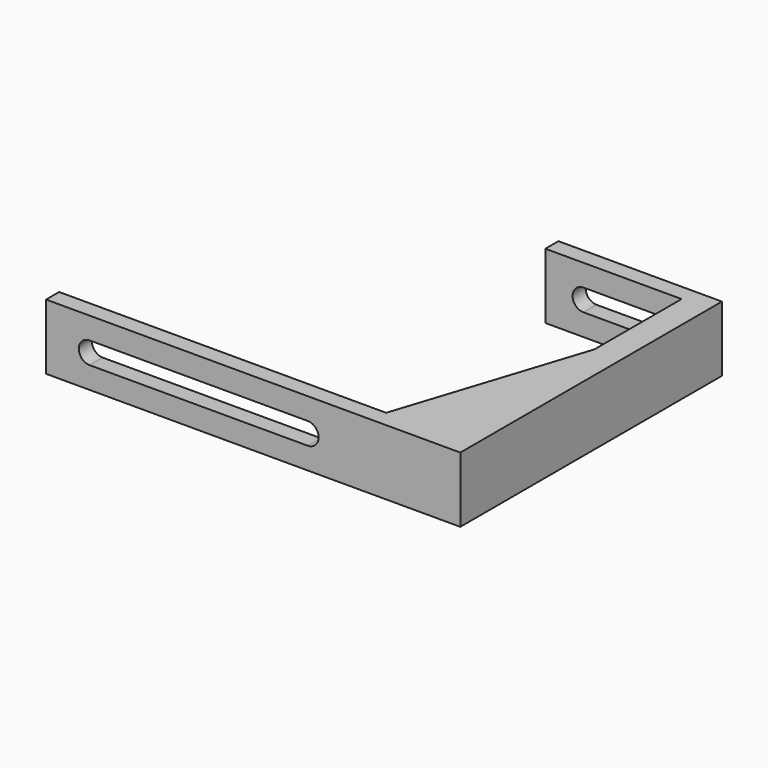
from build123d import *

# Parameters (mm, degrees)
PAD_DEPTH       = 12
POCKET_DEPTH    = 5
POCKET001_DEPTH = 5


with BuildPart() as part:
    # Sketch → Pad (new body)
    with BuildSketch(Plane.XY):
        Polygon((0, 0), (76, 0), (76, 60), (46, 60), (46, 57), (71, 57), (71, 37), (60, 3), (0, 3), align=None)
    extrude(amount=PAD_DEPTH)

    # Sketch001 (on Face3 of Pad) → Pocket (cut)
    with BuildSketch(Plane(origin=(0, 60, 0), x_dir=(-1, 0, 0), z_dir=(0, 1, 0))):
        with BuildLine():
            ThreePointArc((-67, 8), (-69, 6), (-67, 4))
            Line((-67, 4), (-53, 4))
            ThreePointArc((-53, 4), (-51, 6), (-53, 8))
            Line((-53, 8), (-67, 8))
        make_face()
    extrude(amount=-POCKET_DEPTH, mode=Mode.SUBTRACT)

    # Sketch002 (on Face6 of Pocket) → Pocket001 (cut)
    with BuildSketch(Plane(origin=(0, 3, 0), x_dir=(-1, 0, 0), z_dir=(0, 1, 0))):
        with BuildLine():
            ThreePointArc((-48, 8), (-50, 6), (-48, 4))
            Line((-48, 4), (-8, 4))
            ThreePointArc((-8, 4), (-6, 6), (-8, 8))
            Line((-48, 8), (-8, 8))
        make_face()
    extrude(amount=-POCKET001_DEPTH, mode=Mode.SUBTRACT)


solid = part.part
